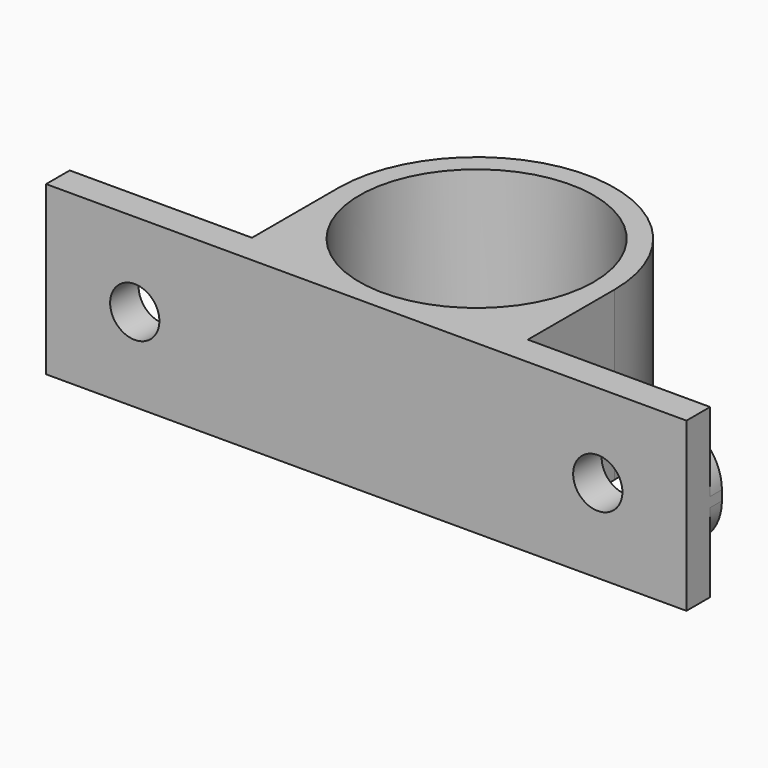
from build123d import *

# Parameters (mm, degrees)
CYLINDER001_R     = 2.5
CYLINDER001_DEPTH = 10
CYLINDER003_R     = 11.9
CYLINDER003_DEPTH = 16
CYLINDER002_R     = 2.5
CYLINDER002_DEPTH = 10
CYLINDER_R        = 14
CYLINDER_DEPTH    = 17
BOX_W             = 65
BOX_H             = 3
BOX_DEPTH         = 17
BOX001_W          = 65
BOX001_H          = 4
BOX001_DEPTH      = 11
BOX002_W          = 28
BOX002_H          = 13
BOX002_DEPTH      = 17
FILLET_R          = 5


with BuildPart() as cylinder001:
    # Cylinder001 → Cylinder001 (new body)
    with BuildSketch(Plane(origin=(-23.5, -14, 8.5), x_dir=(1, 0, 0), z_dir=(0, 1, 0))):
        Circle(CYLINDER001_R)
    extrude(amount=CYLINDER001_DEPTH)


with BuildPart() as cylinder003:
    # Cylinder003 → Cylinder003 (new body)
    with BuildSketch(Plane.XY.offset(1)):
        Circle(CYLINDER003_R)
    extrude(amount=CYLINDER003_DEPTH)


with BuildPart() as cone:
    # Cone → Cone (revolve)
    with BuildSketch(Plane(origin=(23.5, -11.5, 8.5), x_dir=(1, 0, 0), z_dir=(0, 0, 1))):
        Polygon((0, 0), (4.5, 2), (0, 2), align=None)
    revolve(axis=Axis((23.5, -11.5, 8.5), (0, 1, 0)))


with BuildPart() as cone001:
    # Cone001 → Cone001 (revolve)
    with BuildSketch(Plane(origin=(-23.5, -11.5, 8.5), x_dir=(1, 0, 0), z_dir=(0, 0, 1))):
        Polygon((0, 0), (4.5, 2), (0, 2), align=None)
    revolve(axis=Axis((-23.5, -11.5, 8.5), (0, 1, 0)))


with BuildPart() as fusion:
    # Cylinder002 → Cylinder002 (new body)
    with BuildSketch(Plane(origin=(23.5, -14, 8.5), x_dir=(1, 0, 0), z_dir=(0, 1, 0))):
        Circle(CYLINDER002_R)
    extrude(amount=CYLINDER002_DEPTH)

    # Fusion: union Cylinder001, Cylinder003, Cone, Cone001
    add(cylinder001.part)
    add(cylinder003.part)
    add(cone.part)
    add(cone001.part)


with BuildPart() as cylinder:
    # Cylinder → Cylinder (new body)
    with BuildSketch(Plane.XY):
        Circle(CYLINDER_R)
    extrude(amount=CYLINDER_DEPTH)


with BuildPart() as box:
    # Box → Box (new body)
    with BuildSketch(Plane(origin=(-32.5, -14, 0), x_dir=(1, 0, 0), z_dir=(0, 0, 1))):
        with Locations((32.5, 1.5)):
            Rectangle(BOX_W, BOX_H)
    extrude(amount=BOX_DEPTH)


with BuildPart() as box001:
    # Box001 → Box001 (new body)
    with BuildSketch(Plane(origin=(-32.5, -13.5, 3), x_dir=(1, 0, 0), z_dir=(0, 0, 1))):
        with Locations((32.5, 2)):
            Rectangle(BOX001_W, BOX001_H)
    extrude(amount=BOX001_DEPTH)


with BuildPart() as fillet_body:
    # Box002 → Box002 (new body)
    with BuildSketch(Plane(origin=(-14, -13, 0), x_dir=(1, 0, 0), z_dir=(0, 0, 1))):
        with Locations((14, 6.5)):
            Rectangle(BOX002_W, BOX002_H)
    extrude(amount=BOX002_DEPTH)

    # Fusion001: union Cylinder, Box, Box001
    add(cylinder.part)
    add(box.part)
    add(box001.part)

    # Cut: cut Fusion
    add(fusion.part, mode=Mode.SUBTRACT)

    # Fillet
    fillet_edges = [fillet_body.edges().sort_by_distance(p)[0] for p in [
        (32.5, -10.25, 3),
        (32.5, -10.25, 14),
        (-32.5, -10.25, 14),
        (-32.5, -10.25, 3),
    ]]
    fillet(fillet_edges, radius=FILLET_R)


solid = fillet_body.part
